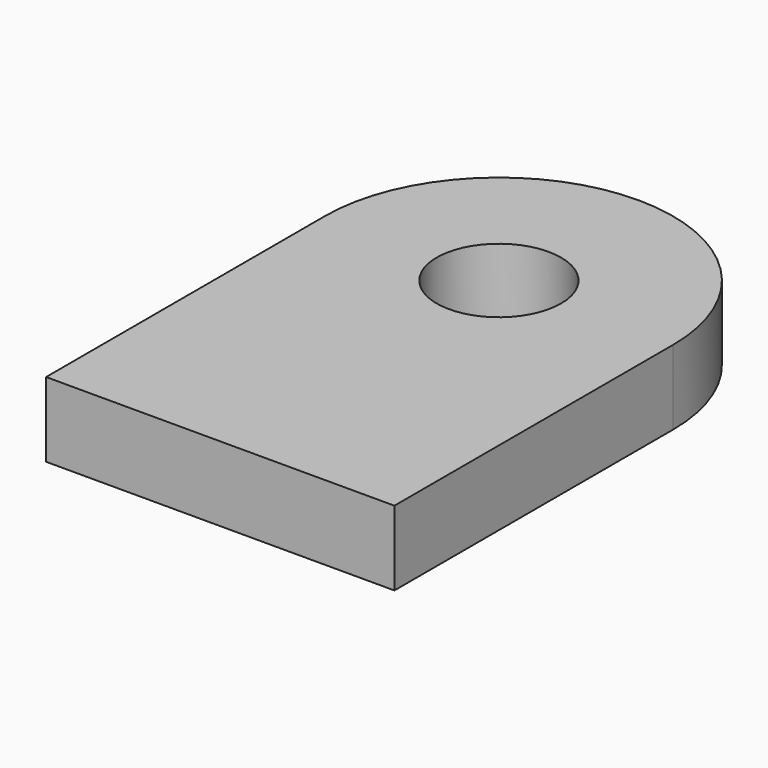
from build123d import *

# Parameters (mm, degrees)
F1_DEPTH = 7.62
F2_R     = 6.35
F3_DEPTH = 25.4


with BuildPart() as f1:
    # F0 (on Top) → F1 (new body)
    with BuildSketch(Plane.XY):
        with BuildLine():
            Line((0, 0), (0, -35.56))
            Line((0, -35.56), (35.56, -35.56))
            Line((35.56, -35.56), (35.56, 0))
            ThreePointArc((35.56, 0), (17.78, 17.78), (0, 0))
        make_face()
    extrude(amount=F1_DEPTH)

    # F2 (on face) → F3 (cut)
    with BuildSketch(Plane.XY.offset(7.62)):
        with Locations((17.78, 0)):
            Circle(F2_R)
    extrude(amount=-F3_DEPTH, mode=Mode.SUBTRACT)


solid = f1.part
